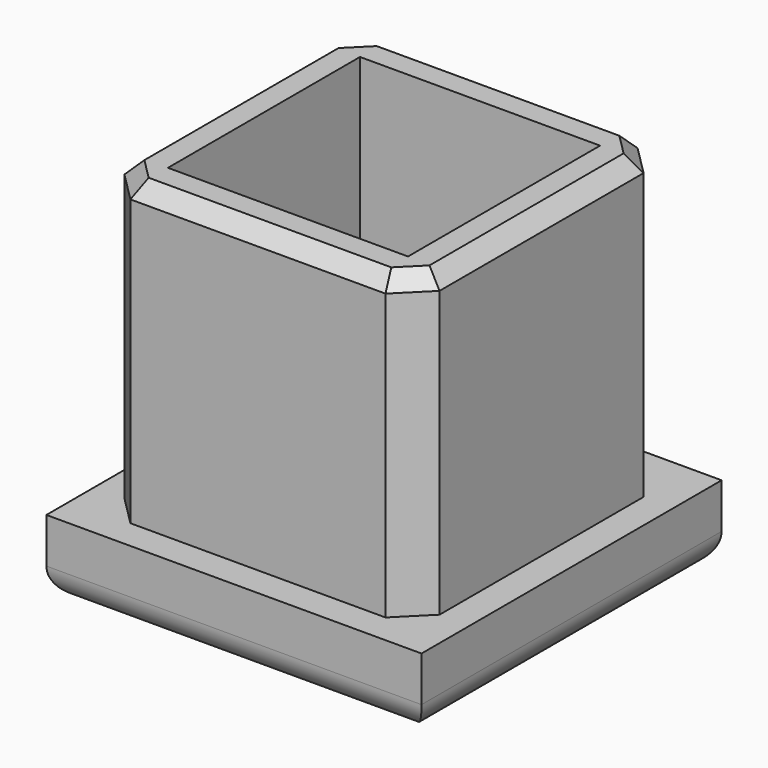
from build123d import *

# Parameters (mm, degrees)
SKETCH_W        = 25
SKETCH_H        = 25
PAD_DEPTH       = 25
SKETCH001_W     = 25
SKETCH001_H     = 25
SKETCH001_W_2   = 21
SKETCH001_H_2   = 21
POCKET_DEPTH    = 20
SKETCH002_W     = 16
SKETCH002_H     = 16
POCKET001_DEPTH = 22
CHAMFER_SIZE    = 2
FILLET_R        = 2
CHAMFER001_SIZE = 1


with BuildPart() as part:
    # Sketch → Pad (new body)
    with BuildSketch(Plane.XY):
        with Locations((12.5, 12.5)):
            Rectangle(SKETCH_W, SKETCH_H)
    extrude(amount=PAD_DEPTH)

    # Sketch001 (on Face6 of Pad) → Pocket (cut)
    with BuildSketch(Plane.XY.offset(25)):
        with Locations((12.5, 12.5)):
            Rectangle(SKETCH001_W, SKETCH001_H)
        with Locations((12.5, 12.5)):
            Rectangle(SKETCH001_W_2, SKETCH001_H_2, mode=Mode.SUBTRACT)
    extrude(amount=-POCKET_DEPTH, mode=Mode.SUBTRACT)

    # Sketch002 (on Face11 of Pocket) → Pocket001 (cut)
    with BuildSketch(Plane.XY.offset(25)):
        with Locations((12.5, 12.5)):
            Rectangle(SKETCH002_W, SKETCH002_H)
    extrude(amount=-POCKET001_DEPTH, mode=Mode.SUBTRACT)

    # Chamfer
    chamfer_edges = [part.edges().sort_by_distance(p)[0] for p in [
        (2, 2, 15),
        (23, 2, 15),
        (2, 23, 15),
        (23, 23, 15),
    ]]
    chamfer(chamfer_edges, length=CHAMFER_SIZE)

    # Fillet
    fillet_edges = [part.edges().sort_by_distance(p)[0] for p in [
        (12.5, 0, 0),
        (25, 12.5, 0),
        (12.5, 25, 0),
        (0, 12.5, 0),
    ]]
    fillet(fillet_edges, radius=FILLET_R)

    # Chamfer001
    chamfer001_edges = [part.edges().sort_by_distance(p)[0] for p in [
        (23, 12.5, 25),
        (22, 3, 25),
        (12.5, 2, 25),
        (3, 3, 25),
        (2, 12.5, 25),
        (3, 22, 25),
        (12.5, 23, 25),
        (22, 22, 25),
    ]]
    chamfer(chamfer001_edges, length=CHAMFER001_SIZE)


solid = part.part
